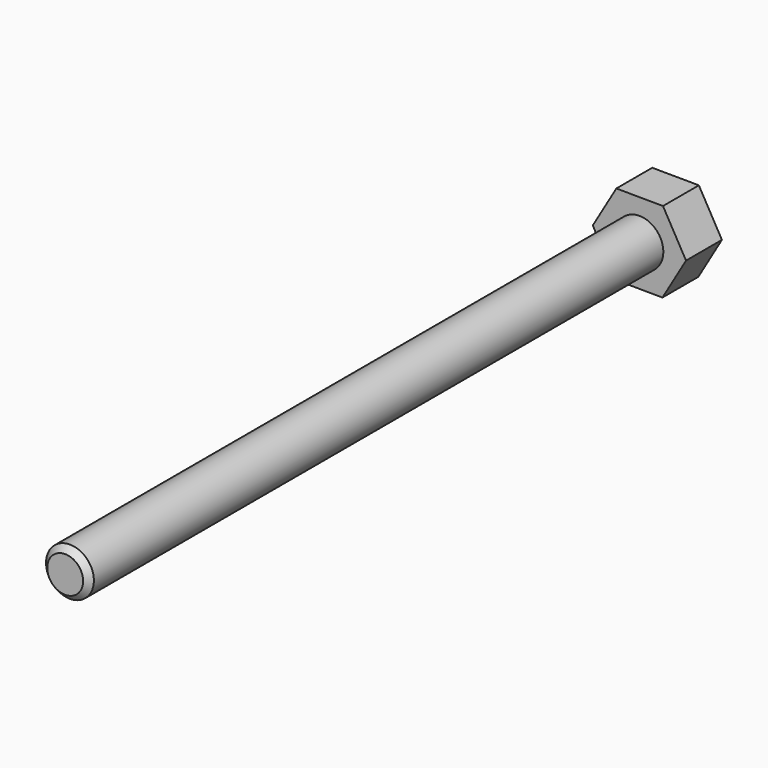
from build123d import *

# Parameters (mm, degrees)
F1_DEPTH = 15
F2_R     = 8
F3_DEPTH = 240
F4_SIZE  = 2


with BuildPart() as f1:
    # F0 (on Front) → F1 (new body)
    with BuildSketch(Plane.XZ):
        Polygon((-15.588133, 0.100479), (-7.881084, -13.44948), (7.707049, -13.549959), (15.588133, -0.100479), (7.881084, 13.44948), (-7.707049, 13.549959), align=None)
    extrude(amount=-F1_DEPTH)

    # F2 (on face) → F3 (join)
    with BuildSketch(Plane.XZ):
        Circle(F2_R)
    extrude(amount=F3_DEPTH)

    # F4
    f4_edges = [f1.edges().sort_by_distance(p)[0] for p in [
        (-8, -240, 0),
    ]]
    chamfer(f4_edges, length=F4_SIZE)


solid = f1.part
